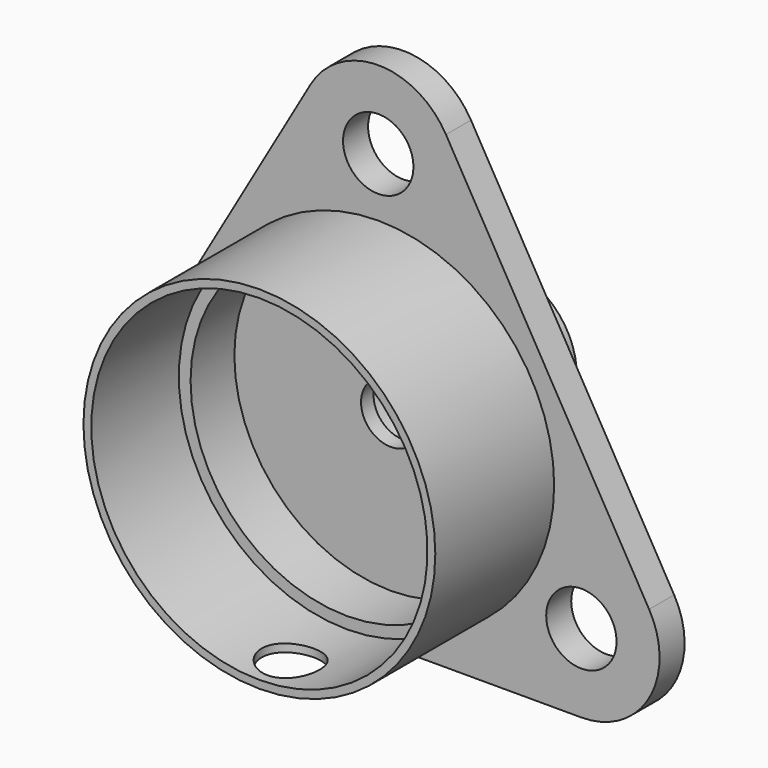
from build123d import *

# Parameters (mm, degrees)
F2_R     = 1.85
F3_DEPTH = 11.251
F4_R     = 2.25
F4_R_2   = 11.25
F4_R_3   = 10.75
F5_DEPTH = 2


with BuildPart() as f1:
    # F0 (on Right) → F1 (revolve)
    with BuildSketch(Plane.YZ):
        Polygon((11.5, 11.25), (0, 11.25), (0, 10.75), (7, 10.75), (7, 10), (10.5, 10), (10.5, 1.9), (11.5, 1.9), (11.5, 4), (19.5, 4), (19.5, 4.7), (11.5, 4.7), align=None)
    revolve(axis=Axis((0, 13.454885, 0), (0, 1, 0)))

    # F2 (on Top) → F3 (cut, through all)
    with BuildSketch(Plane.XY):
        with Locations((0, 2.5)):
            Circle(F2_R)
    extrude(amount=-F3_DEPTH, mode=Mode.SUBTRACT)

    # F4 (on face) → F5 (join)
    with BuildSketch(Plane(origin=(0, 11.5, 0), x_dir=(-1, 0, 0), z_dir=(0, 1, 0))):
        with BuildLine():
            Line((17.320508, -5), (4.330127, 17.5))
            ThreePointArc((4.330127, 17.5), (0, 20), (-4.330127, 17.5))
            Line((-4.330127, 17.5), (-17.320508, -5))
            ThreePointArc((-17.320508, -5), (-17.320508, -10), (-12.990381, -12.5))
            Line((-12.990381, -12.5), (12.990381, -12.5))
            ThreePointArc((12.990381, -12.5), (17.320508, -10), (17.320508, -5))
        make_face()
        with Locations((-12.990381, -7.5)):
            Circle(F4_R, mode=Mode.SUBTRACT)
        Circle(F4_R_2, mode=Mode.SUBTRACT)
        with Locations((12.990381, -7.5)):
            Circle(F4_R, mode=Mode.SUBTRACT)
        with Locations((0, 15)):
            Circle(F4_R, mode=Mode.SUBTRACT)
        Circle(F4_R_2)
        Circle(F4_R_3, mode=Mode.SUBTRACT)
    extrude(amount=-F5_DEPTH)


solid = f1.part
